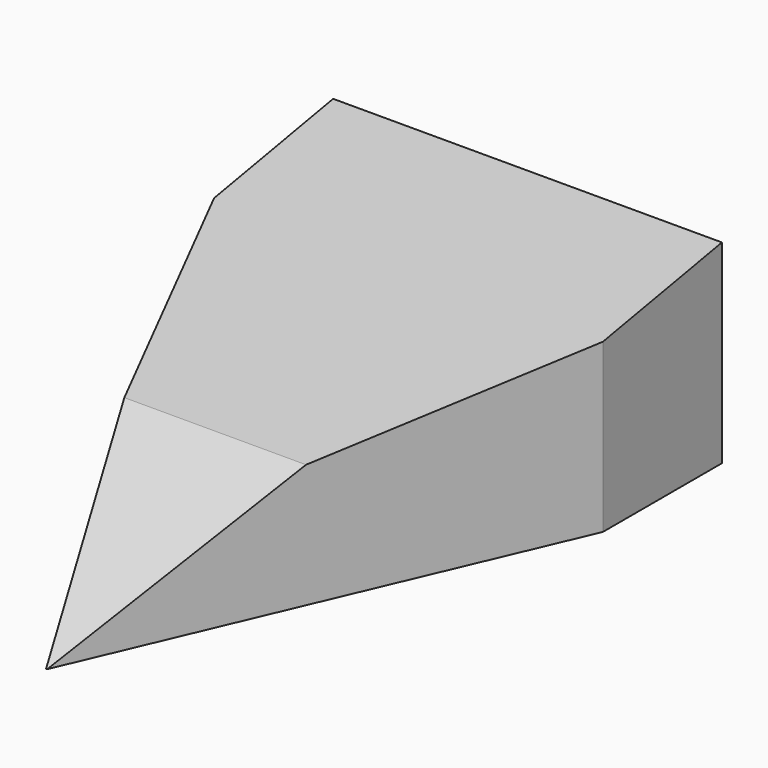
from build123d import *

# Parameters (mm, degrees)
F1_DEPTH      = 30
F1_DEPTH_BACK = 30
F2_W          = 128.9662867785
F2_H          = 144.6911841631
F3_DEPTH      = 40


with BuildPart() as f1:
    # F0 (on Right) → F1 (new body, two sides)
    with BuildSketch(Plane.YZ) as f1_sk:
        Polygon((22.9687523097, 10), (40.8571420161, 10), (22.9687523097, 30), align=None)
        Polygon((-69.8011368513, 0), (0, 0), (40.8571420161, 0), (40.8571420161, 10), (22.9687523097, 10), (22.9687523097, 30), (-37.2869335115, 19.0909095109), align=None)
    extrude(amount=F1_DEPTH)
    extrude(f1_sk.sketch, amount=-F1_DEPTH_BACK)

    # F2 (on Top) → F3 (cut)
    with BuildSketch(Plane.XY):
        with Locations((1.7579421401, -5.0404667854)):
            Rectangle(F2_W, F2_H)
        Polygon((-10, 42.5714296164), (0, 42.5714296164), (10, 42.5714296164), (30, 22.968750447), (30, 0), (0, -70), (-30, 0), (-30, 22.968750447), align=None, mode=Mode.SUBTRACT)
    extrude(amount=F3_DEPTH, mode=Mode.SUBTRACT)


solid = f1.part
